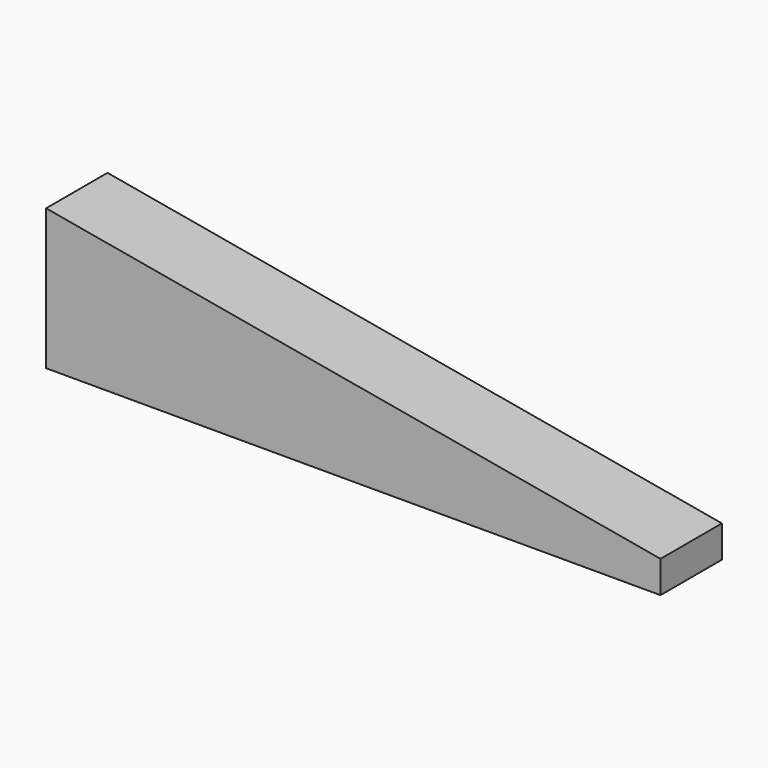
from build123d import *

# Parameters (mm, degrees)
F1_DEPTH = 38.1
F2_R     = 9.525
F3_DEPTH = 50.8


with BuildPart() as f1:
    # F0 (on Front) → F1 (new body)
    with BuildSketch(Plane.XZ):
        Polygon((0, 69.85), (0, 0), (304.8, 0), (304.8, 15.875), align=None)
    extrude(amount=-F1_DEPTH)

    # F2 (on face) → F3 (cut)
    with BuildSketch(Plane(origin=(0, 0, 0), x_dir=(0, -1, 0), z_dir=(-1, 0, 0))):
        with Locations((-19.05, 34.925)):
            Circle(F2_R)
    extrude(amount=-F3_DEPTH, mode=Mode.SUBTRACT)


solid = f1.part
